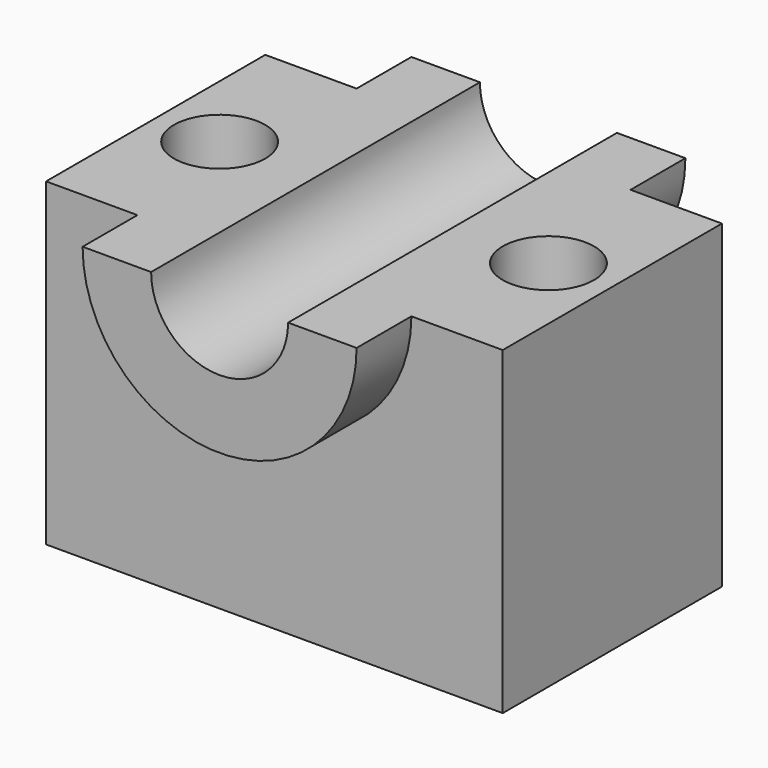
from build123d import *

# Parameters (mm, degrees)
F0_W     = 127
F0_H     = 76.2
F1_DEPTH = 88.9
F2_R     = 38.1
F3_DEPTH = 57.15
F5_DEPTH = 127
F6_R     = 19.05
F7_DEPTH = 127
F8_R     = 12.7
F9_DEPTH = 88.901


with BuildPart() as f1:
    # F0 (on Top) → F1 (new body)
    with BuildSketch(Plane.XY):
        Rectangle(F0_W, F0_H)
    extrude(amount=F1_DEPTH)

    # F2 (on Front) → F3 (join, symmetric)
    with BuildSketch(Plane.XZ):
        with Locations((0, 88.9)):
            Circle(F2_R)
    extrude(amount=F3_DEPTH, both=True)

    # F4 (on Front) → F5 (cut, symmetric)
    with BuildSketch(Plane.XZ):
        with BuildLine():
            Line((76.654768, 131.578267), (-50.806063, 131.578267))
            Line((-50.806063, 131.578267), (-50.806063, 88.9))
            Line((-50.806063, 88.9), (-19.05, 88.9))
            ThreePointArc((-19.05, 88.9), (0, 107.95), (19.05, 88.9))
            Line((19.05, 88.9), (76.654768, 88.9))
            Line((76.654768, 88.9), (76.654768, 131.578267))
        make_face()
    extrude(amount=F5_DEPTH, both=True, mode=Mode.SUBTRACT)

    # F6 (on Front) → F7 (cut, symmetric)
    with BuildSketch(Plane.XZ):
        with Locations((0, 88.9)):
            Circle(F6_R)
    extrude(amount=F7_DEPTH, both=True, mode=Mode.SUBTRACT)

    # F8 (on face) → F9 (cut, through all)
    with BuildSketch(Plane.XY.offset(88.9)):
        with Locations((-45.72, 0)):
            Circle(F8_R)
        with Locations((45.72, 0)):
            Circle(F8_R)
    extrude(amount=-F9_DEPTH, mode=Mode.SUBTRACT)


solid = f1.part
